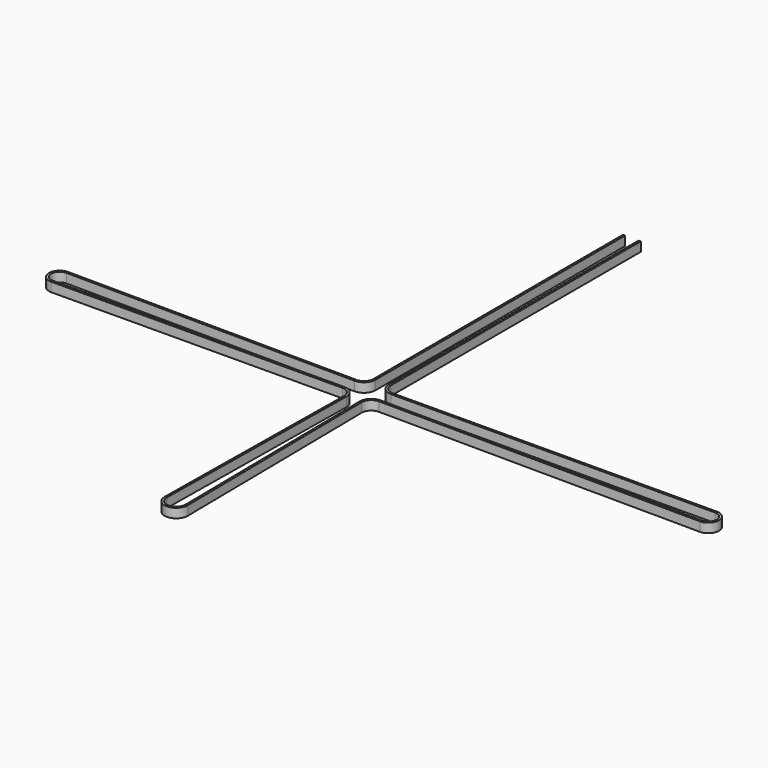
from build123d import *

# Parameters (mm, degrees)
F1_DEPTH = 6


with BuildPart() as f1:
    # F0 (on Top) → F1 (new body)
    with BuildSketch(Plane.XY):
        with BuildLine():
            ThreePointArc((-5.640001, 11.753323), (-7.442462, 7.416732), (-11.789711, 5.640129))
            Line((-11.789711, 5.640129), (-199.455415, 6.859855))
            ThreePointArc((-199.455415, 6.859855), (-206.36, 0), (-199.455415, -6.859855))
            Line((-199.455415, -6.859855), (-11.789711, -5.640129))
            ThreePointArc((-11.789711, -5.640129), (-7.415726, -7.443473), (-5.64051, -11.828949))
            Line((-5.64051, -11.828949), (-7.489375, -154.903219))
            ThreePointArc((-7.489375, -154.903219), (0, -162.49), (7.489375, -154.903219))
            Line((7.489375, -154.903219), (5.64051, -11.828949))
            ThreePointArc((5.64051, -11.828949), (7.415726, -7.443473), (11.789711, -5.640129))
            Line((11.789711, -5.640129), (220.7, -6.859855))
            ThreePointArc((220.7, -6.859855), (227.604585, 0), (220.7, 6.859855))
            Line((220.7, 6.859855), (11.789711, 5.640129))
            ThreePointArc((11.789711, 5.640129), (7.442462, 7.416732), (5.640001, 11.753323))
            Line((5.640001, 11.753323), (5.75, 214))
            Line((5.75, 214), (4.37, 214))
            Line((4.37, 214), (4.260001, 11.754074))
            ThreePointArc((4.260001, 11.754074), (6.469564, 6.438023), (11.79868, 4.260158))
            Line((11.79868, 4.260158), (220.708969, 5.479884))
            ThreePointArc((220.708969, 5.479884), (226.224585, 0), (220.708969, -5.479884))
            Line((220.708969, -5.479884), (11.79868, -4.260158))
            ThreePointArc((11.79868, -4.260158), (6.43679, -6.470805), (4.260625, -11.846781))
            Line((4.260625, -11.846781), (6.10949, -154.921051))
            ThreePointArc((6.10949, -154.921051), (0, -161.11), (-6.10949, -154.921051))
            Line((-6.10949, -154.921051), (-4.260625, -11.846781))
            ThreePointArc((-4.260625, -11.846781), (-6.43679, -6.470805), (-11.79868, -4.260158))
            Line((-11.79868, -4.260158), (-199.464384, -5.479884))
            ThreePointArc((-199.464384, -5.479884), (-204.98, 0), (-199.464384, 5.479884))
            Line((-199.464384, 5.479884), (-11.79868, 4.260158))
            ThreePointArc((-11.79868, 4.260158), (-6.469564, 6.438023), (-4.260001, 11.754074))
            Line((-4.260001, 11.754074), (-4.37, 214))
            Line((-4.37, 214), (-5.75, 214))
            Line((-5.75, 214), (-5.640001, 11.753323))
        make_face()
    extrude(amount=F1_DEPTH)


solid = f1.part
